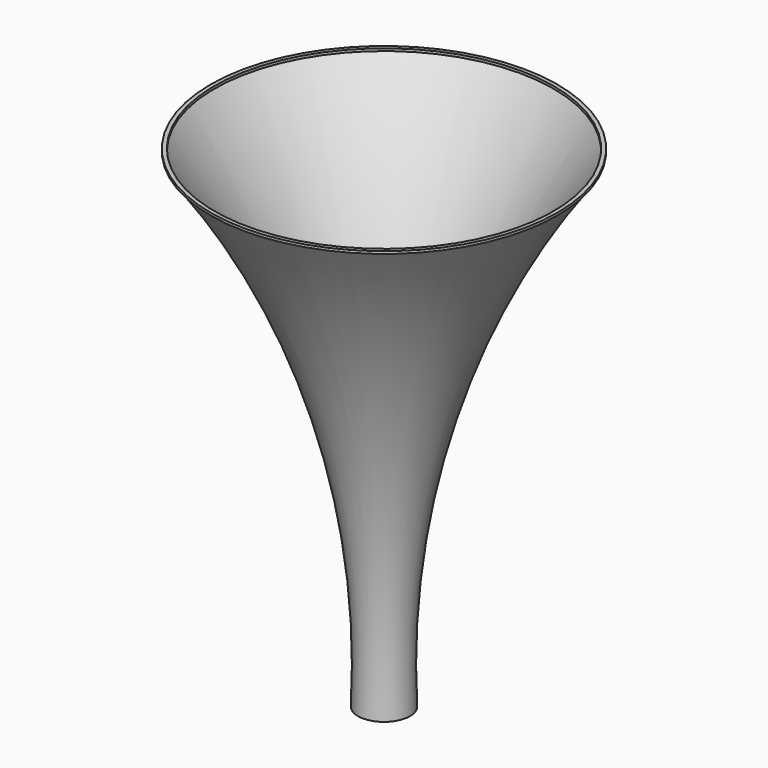
from build123d import *


with BuildPart() as f2:
    # F1 (on Right) → F2 (revolve)
    with BuildSketch(Plane.YZ):
        with BuildLine():
            Line((-5.299645, 0.014583), (-5, 0))
            ThreePointArc((-5, 0), (-11.414984, 52.575505), (-35, 100))
            Line((-35, 100), (-35.242136, 99.822883))
            ThreePointArc((-35.242136, 99.822883), (-11.702331, 52.489301), (-5.299645, 0.014583))
        make_face()
    revolve(axis=Axis((0, 0, 50), (0, 0, 1)))

    # F1 (on Right) → F3 (revolve)
    with BuildSketch(Plane.YZ):
        Polygon((34.6, 100.25), (34.6, 100), (34.6, 99.75), (35.4, 99.75), (35.4, 100.25), align=None)
    revolve(axis=Axis((0, 0, 50), (0, 0, 1)))


solid = f2.part
